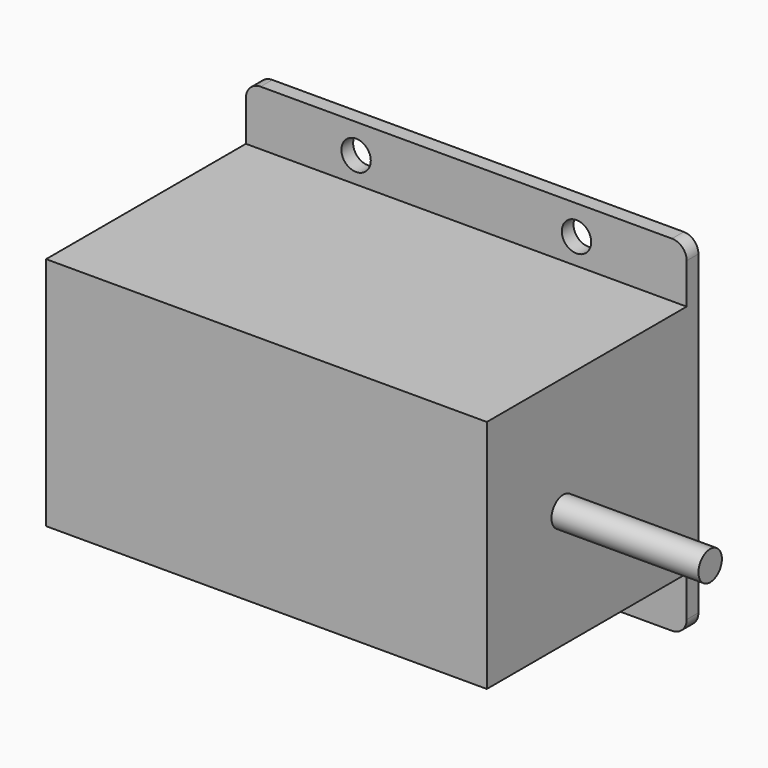
from build123d import *

# Parameters (mm, degrees)
F0_R     = 2
F1_DEPTH = 2
F2_W     = 60
F2_H     = 32
F3_DEPTH = 36
F4_R     = 2
F5_DEPTH = 20


with BuildPart() as f1:
    # F0 (on Front) → F1 (new body)
    with BuildSketch(Plane.XZ):
        with BuildLine():
            ThreePointArc((30, 21.5), (29.414214, 22.914214), (28, 23.5))
            Line((28, 23.5), (-28, 23.5))
            ThreePointArc((-28, 23.5), (-29.414214, 22.914214), (-30, 21.5))
            Line((-30, 21.5), (-30, -21.5))
            ThreePointArc((-30, -21.5), (-29.414214, -22.914214), (-28, -23.5))
            Line((-28, -23.5), (28, -23.5))
            ThreePointArc((28, -23.5), (29.414214, -22.914214), (30, -21.5))
            Line((30, -21.5), (30, 21.5))
        make_face()
        with Locations((-15, -19.5)):
            Circle(F0_R, mode=Mode.SUBTRACT)
        with Locations((15, -19.5)):
            Circle(F0_R, mode=Mode.SUBTRACT)
        with Locations((-15, 19.5)):
            Circle(F0_R, mode=Mode.SUBTRACT)
        with Locations((15, 19.5)):
            Circle(F0_R, mode=Mode.SUBTRACT)
    extrude(amount=F1_DEPTH)

    # F2 (on Front) → F3 (join)
    with BuildSketch(Plane.XZ):
        Rectangle(F2_W, F2_H)
    extrude(amount=F3_DEPTH)

    # F4 (on face) → F5 (join)
    with BuildSketch(Plane.YZ.offset(30)):
        with Locations((-23, 0)):
            Circle(F4_R)
    extrude(amount=F5_DEPTH)


solid = f1.part
